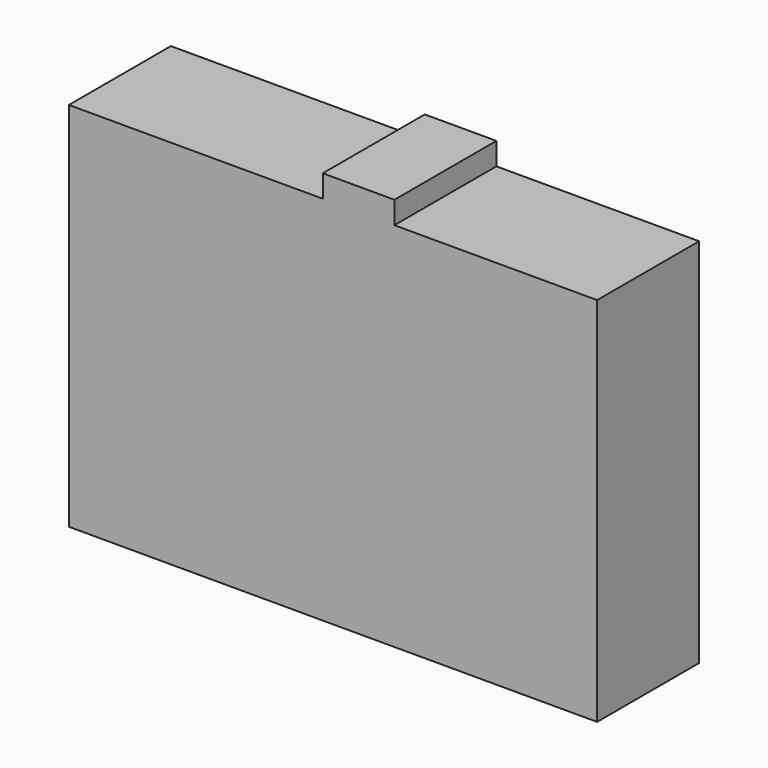
from build123d import *

# Parameters (mm, degrees)
F0_W     = 14.2736285925
F0_H     = 4.4665746391
F0_H_2   = 2.3303888738
F1_DEPTH = 25.4


with BuildPart() as f1:
    # F0 (on Front) → F1 (new body)
    with BuildSketch(Plane.XZ):
        with Locations((7.1368142962, 40.1991996914)):
            Rectangle(F0_W, F0_H)
        with Locations((7.1368142962, 36.800717935)):
            Rectangle(F0_W, F0_H_2)
        Polygon((0, 37.9659123719), (-50.588849932, 37.9659123719), (-50.588849932, -36.0239222646), (54.6670295298, -36.0239222646), (54.6670295298, 37.9659123719), (14.2736285925, 37.9659123719), (14.2736285925, 35.6355234981), (0, 35.6355234981), align=None)
    extrude(amount=F1_DEPTH)


solid = f1.part
